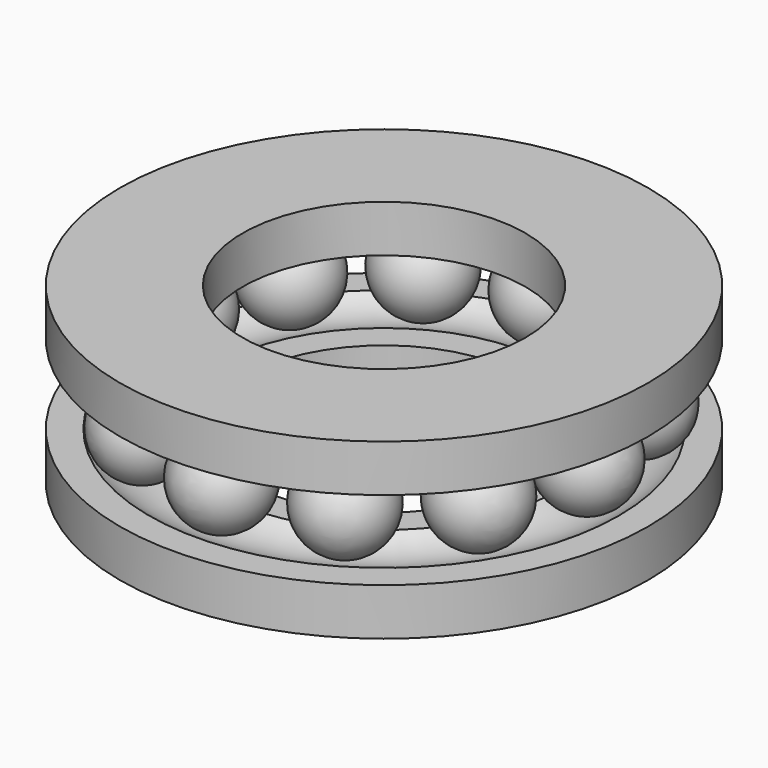
from build123d import *

# Parameters (mm, degrees)
F0_R     = 14
F0_R_2   = 7.5
F1_DEPTH = 2.5
F6_COUNT = 12


with BuildPart() as f1:
    # F0 (on Top) → F1 (new body)
    with BuildSketch(Plane.XY):
        Circle(F0_R)
        Circle(F0_R_2, mode=Mode.SUBTRACT)
    extrude(amount=F1_DEPTH)

    # F2 (on Front) → F3 (revolve, cut)
    with BuildSketch(Plane.XZ):
        with BuildLine():
            Line((-9.052944, 2.5), (-12.447056, 2.5))
            ThreePointArc((-12.447056, 2.5), (-10.75, 1.9), (-9.052944, 2.5))
        make_face()
    revolve(axis=Axis((0, 0, 0), (0, 0, -1)), mode=Mode.SUBTRACT)


with BuildPart() as f5:
    # F4 (on Front) → F5 (revolve)
    with BuildSketch(Plane.XZ):
        with BuildLine():
            Line((-10.75, 4.6), (-10.75, 7))
            ThreePointArc((-10.75, 7), (-13.15, 4.6), (-10.75, 2.2))
            Line((-10.75, 2.2), (-10.75, 4.6))
        make_face()
    revolve(axis=Axis((-10.75, 0, 5.8), (0, 0, 1)))


with BuildPart() as f6_1:
    # F6: instance of F5
    add(f5.part.rotate(Axis((0, 0, 2.5), (0, 0, 1)), 1 * 360 / F6_COUNT))


with BuildPart() as f6_2:
    # F6: instance of F5
    add(f5.part.rotate(Axis((0, 0, 2.5), (0, 0, 1)), 2 * 360 / F6_COUNT))


with BuildPart() as f6_3:
    # F6: instance of F5
    add(f5.part.rotate(Axis((0, 0, 2.5), (0, 0, 1)), 3 * 360 / F6_COUNT))


with BuildPart() as f6_4:
    # F6: instance of F5
    add(f5.part.rotate(Axis((0, 0, 2.5), (0, 0, 1)), 4 * 360 / F6_COUNT))


with BuildPart() as f6_5:
    # F6: instance of F5
    add(f5.part.rotate(Axis((0, 0, 2.5), (0, 0, 1)), 5 * 360 / F6_COUNT))


with BuildPart() as f6_6:
    # F6: instance of F5
    add(f5.part.rotate(Axis((0, 0, 2.5), (0, 0, 1)), 6 * 360 / F6_COUNT))


with BuildPart() as f6_7:
    # F6: instance of F5
    add(f5.part.rotate(Axis((0, 0, 2.5), (0, 0, 1)), 7 * 360 / F6_COUNT))


with BuildPart() as f6_8:
    # F6: instance of F5
    add(f5.part.rotate(Axis((0, 0, 2.5), (0, 0, 1)), 8 * 360 / F6_COUNT))


with BuildPart() as f6_9:
    # F6: instance of F5
    add(f5.part.rotate(Axis((0, 0, 2.5), (0, 0, 1)), 9 * 360 / F6_COUNT))


with BuildPart() as f6_10:
    # F6: instance of F5
    add(f5.part.rotate(Axis((0, 0, 2.5), (0, 0, 1)), 10 * 360 / F6_COUNT))


with BuildPart() as f6_11:
    # F6: instance of F5
    add(f5.part.rotate(Axis((0, 0, 2.5), (0, 0, 1)), 11 * 360 / F6_COUNT))


with BuildPart() as f8_1:
    # F8: instance of F1
    add(f1.part.mirror(Plane(origin=(-10.75, 0, 4.6), x_dir=(1, 0, 0), z_dir=(0, 0, 1))))


solid = Compound([f1.part, f5.part, f6_1.part, f6_2.part, f6_3.part, f6_4.part, f6_5.part, f6_6.part, f6_7.part, f6_8.part, f6_9.part, f6_10.part, f6_11.part, f8_1.part])
